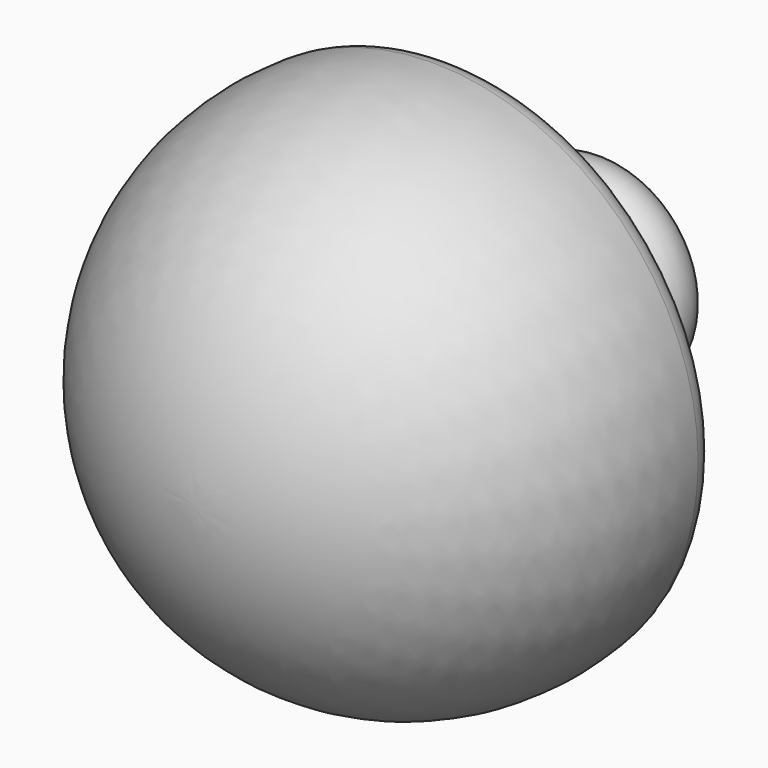
from build123d import *

# Parameters (mm, degrees)
F2_R     = 4.528201
F3_DEPTH = 43.18
F4_DEPTH = 68.072


with BuildPart() as f1:
    # F0 (on Top) → F1 (revolve)
    with BuildSketch(Plane.XY):
        with BuildLine():
            Line((0, -51.644554), (0, 51.644554))
            ThreePointArc((0, 51.644554), (-7.983214, 51.023801), (-15.774517, 49.176464))
            ThreePointArc((-15.774517, 49.176464), (-19.968375, 44.774185), (-18.538979, 38.864419))
            Line((-18.538979, 38.864419), (-17.555068, 37.779355))
            ThreePointArc((-17.555068, 37.779355), (-15.98637, 32.526237), (-19.093314, 28.009273))
            Line((-19.093314, 28.009273), (-33.588315, 19.672918))
            ThreePointArc((-33.588315, 19.672918), (-36.250051, 7.531153), (-48.083316, 11.336563))
            ThreePointArc((-48.083316, 11.336563), (-50.197555, 9.359574), (-51.214674, 6.649599))
            ThreePointArc((-51.214674, 6.649599), (-38.798038, -34.086247), (0, -51.644554))
        make_face()
    revolve(axis=Axis((0, 0, 0), (0, -1, 0)))

    # F2 (on Top) → F3 (cut)
    with BuildSketch(Plane.XY):
        with Locations((0, 33.875205)):
            Circle(F2_R)
    extrude(amount=-F3_DEPTH, mode=Mode.SUBTRACT)

    # F2 (on Top) → F4 (cut)
    with BuildSketch(Plane.XY):
        with Locations((0, 33.875205)):
            Circle(F2_R)
    extrude(amount=F4_DEPTH, mode=Mode.SUBTRACT)


solid = f1.part
